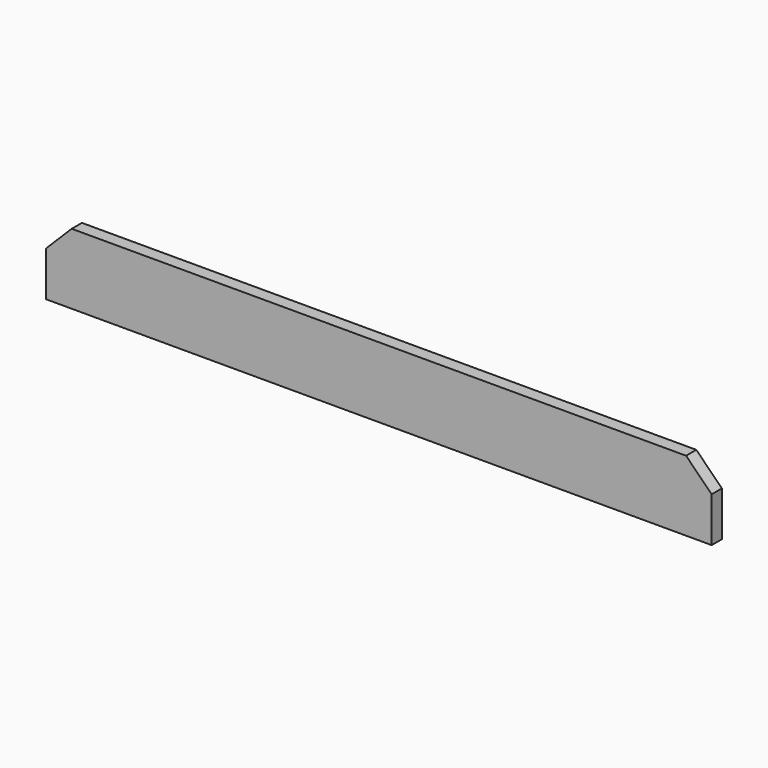
from build123d import *

# Parameters (mm, degrees)
F0_W     = 25.4
F0_H     = 139.7
F1_DEPTH = 660.4
F2_SIZE  = 50.8


with BuildPart() as f1:
    # F0 (on Right) → F1 (new body, symmetric)
    with BuildSketch(Plane.YZ):
        Rectangle(F0_W, F0_H)
    extrude(amount=F1_DEPTH, both=True)

    # F2
    f2_edges = [f1.edges().sort_by_distance(p)[0] for p in [
        (660.4, 0, 69.85),
        (-660.4, 0, 69.85),
    ]]
    chamfer(f2_edges, length=F2_SIZE)


solid = f1.part
